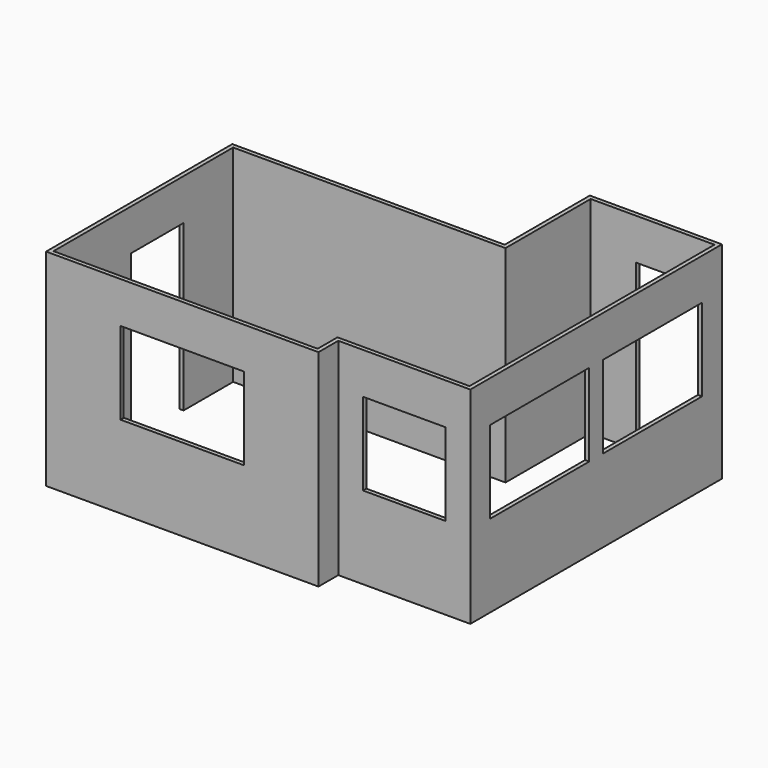
from build123d import *

# Parameters (mm, degrees)
F1_DEPTH  = 63.5
F2_W      = 38.1
F2_H      = 25.4
F3_DEPTH  = 1.27
F4_W      = 25.4
F4_H      = 25.4
F5_DEPTH  = 1.27
F6_W      = 38.1
F6_H      = 25.4
F7_DEPTH  = 1.27
F8_W      = 20.32
F8_H      = 50.8
F9_DEPTH  = 1.27
F10_W     = 20.32
F10_H     = 50.8
F11_DEPTH = 1.27


with BuildPart() as f1:
    # F0 (on Top) → F1 (new body)
    with BuildSketch(Plane.XY):
        Polygon((0, 32.766), (0, 0), (-83.82, 0), (-83.82, -71.628), (0, -71.628), (0, -64.008), (40.64, -64.008), (40.64, 32.766), align=None)
        Polygon((1.27, -1.27), (1.27, 31.496), (39.37, 31.496), (39.37, -62.738), (-1.27, -62.738), (-1.27, -70.358), (-82.55, -70.358), (-82.55, -1.27), align=None, mode=Mode.SUBTRACT)
    extrude(amount=F1_DEPTH)

    # F2 (on face) → F3 (cut)
    with BuildSketch(Plane.XZ.offset(71.628)):
        with Locations((-41.91, 38.1)):
            Rectangle(F2_W, F2_H)
    extrude(amount=-F3_DEPTH, mode=Mode.SUBTRACT)

    # F4 (on face) → F5 (cut)
    with BuildSketch(Plane.XZ.offset(64.008)):
        with Locations((20.32, 38.1)):
            Rectangle(F4_W, F4_H)
    extrude(amount=-F5_DEPTH, mode=Mode.SUBTRACT)

    # F6 (on face) → F7 (cut)
    with BuildSketch(Plane.YZ.offset(40.64)):
        with Locations((-37.338, 38.1)):
            Rectangle(F6_W, F6_H)
        with Locations((6.096, 38.1)):
            Rectangle(F6_W, F6_H)
    extrude(amount=-F7_DEPTH, mode=Mode.SUBTRACT)

    # F8 (on face) → F9 (cut)
    with BuildSketch(Plane(origin=(0, 32.766, 0), x_dir=(-1, 0, 0), z_dir=(0, 1, 0))):
        with Locations((-25.4, 25.4)):
            Rectangle(F8_W, F8_H)
    extrude(amount=-F9_DEPTH, mode=Mode.SUBTRACT)

    # F10 (on face) → F11 (cut)
    with BuildSketch(Plane(origin=(-83.82, 0, 0), x_dir=(0, -1, 0), z_dir=(-1, 0, 0))):
        with Locations((30.48, 25.4)):
            Rectangle(F10_W, F10_H)
    extrude(amount=-F11_DEPTH, mode=Mode.SUBTRACT)


solid = f1.part
